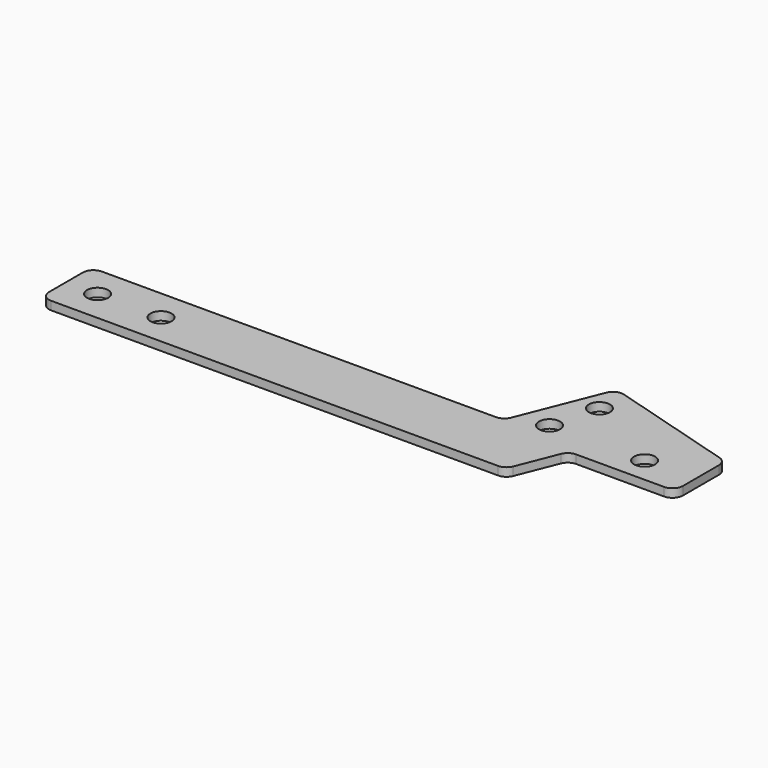
from build123d import *

# Parameters (mm, degrees)
F0_R     = 5
F1_DEPTH = 4
F2_R     = 5


with BuildPart() as f1:
    # F0 (on Top) → F1 (new body)
    with BuildSketch(Plane.XY):
        Polygon((0, 30), (0, 0), (220, 0), (230, 25.196342), (280, 25.196342), (280, 55.196342), (212.859735, 75), (195, 30), align=None)
        with Locations((15, 15)):
            Circle(F0_R, mode=Mode.SUBTRACT)
        with Locations((45, 15)):
            Circle(F0_R, mode=Mode.SUBTRACT)
        with Locations((211.182641, 37.196342)):
            Circle(F0_R, mode=Mode.SUBTRACT)
        with Locations((256.182641, 37.196342)):
            Circle(F0_R, mode=Mode.SUBTRACT)
        with Locations((217.044881, 59.405253)):
            Circle(F0_R, mode=Mode.SUBTRACT)
    extrude(amount=F1_DEPTH)

    # F2
    f2_edges = [f1.edges().sort_by_distance(p)[0] for p in [
        (0, 30, 2),
        (0, 0, 2),
        (220, 0, 2),
        (280, 25.196342, 2),
        (280, 55.196342, 2),
        (212.859735, 75, 2),
        (195, 30, 2),
        (230, 25.196342, 2),
    ]]
    fillet(f2_edges, radius=F2_R)


solid = f1.part
